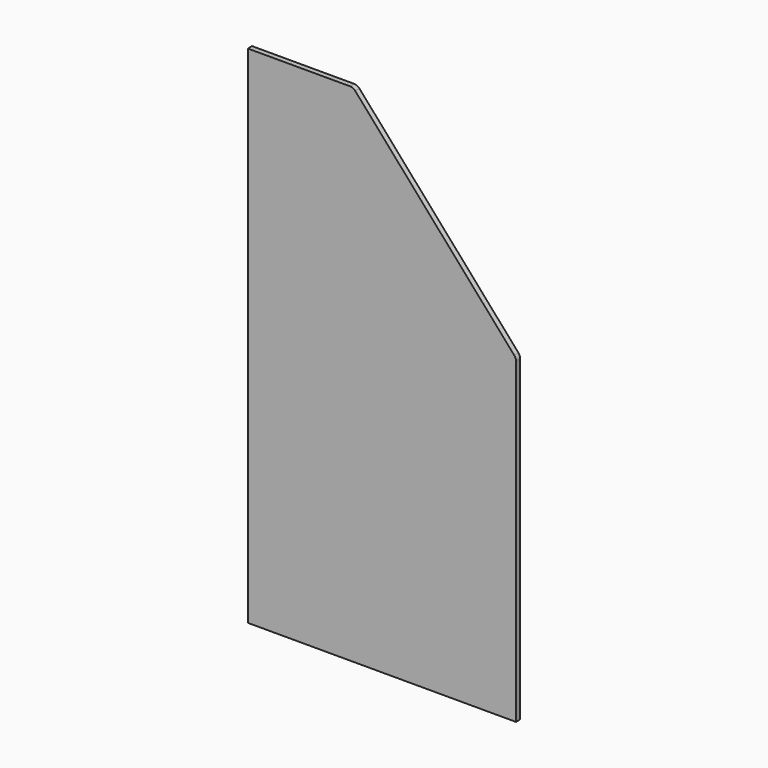
from build123d import *

# Parameters (mm, degrees)
F1_DEPTH = 19.05
F2_R     = 25.4


with BuildPart() as f1:
    # F0 (on Front) → F1 (new body)
    with BuildSketch(Plane.XZ):
        Polygon((-970, 0), (0, 0), (0, 1158.24), (-589, 1828.8), (-970, 1828.8), align=None)
    extrude(amount=F1_DEPTH)

    # F2
    f2_edges = [f1.edges().sort_by_distance(p)[0] for p in [
        (-589, -9.525, 1828.8),
        (0, -9.525, 1158.24),
    ]]
    fillet(f2_edges, radius=F2_R)


solid = f1.part
